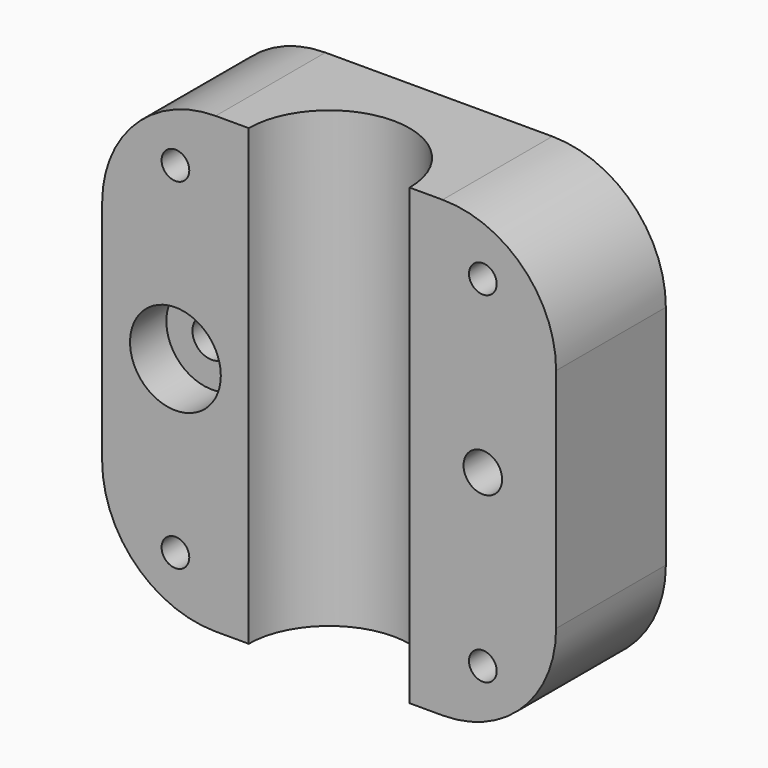
from build123d import *

# Parameters (mm, degrees)
F0_W      = 50.8
F0_H      = 50.8
F1_DEPTH  = 50.8
F2_R      = 9
F3_DEPTH  = 407.416
F4_W      = 60.1204171121
F4_H      = 25.4
F5_DEPTH  = 338.582
F6_R      = 5.08
F7_DEPTH  = 5.08
F8_R      = 2.159
F9_DEPTH  = 25.4
F10_R     = 1.5494
F11_DEPTH = 25.4
F12_R     = 1.5494
F12_R_2   = 2.159
F13_DEPTH = 25.4
F18_DEPTH = 72.39
F21_R     = 12.7


with BuildPart() as f1:
    # F0 (on Top) → F1 (new body)
    with BuildSketch(Plane.XY):
        Rectangle(F0_W, F0_H)
    extrude(amount=F1_DEPTH)

    # F2 (on face) → F3 (cut)
    with BuildSketch(Plane(origin=(0, 0, 0), x_dir=(1, 0, 0), z_dir=(0, 0, -1))):
        Circle(F2_R)
    extrude(amount=-F3_DEPTH, mode=Mode.SUBTRACT)

    # F4 (on face) → F5 (cut)
    with BuildSketch(Plane(origin=(0, 0, 0), x_dir=(1, 0, 0), z_dir=(0, 0, -1))):
        with Locations((4.6602085561, 12.7)):
            Rectangle(F4_W, F4_H)
    extrude(amount=-F5_DEPTH, mode=Mode.SUBTRACT)

    # F6 (on face) → F7 (cut)
    with BuildSketch(Plane.XZ):
        with Locations((-17.2, 25.4)):
            Circle(F6_R)
    extrude(amount=-F7_DEPTH, mode=Mode.SUBTRACT)

    # F8 (on face) → F9 (cut)
    with BuildSketch(Plane.XZ.offset(-5.08)):
        with Locations((-17.2, 25.4)):
            Circle(F8_R)
    extrude(amount=-F9_DEPTH, mode=Mode.SUBTRACT)

    # F10 (on face) → F11 (cut)
    with BuildSketch(Plane.XZ):
        with Locations((-17.2, 44.4713309407)):
            Circle(F10_R)
    extrude(amount=-F11_DEPTH, mode=Mode.SUBTRACT)

    # F12 (on face) → F13 (cut)
    with BuildSketch(Plane.XZ):
        with Locations((17.2, 44.4713309407)):
            Circle(F12_R)
        with Locations((17.2, 25.4)):
            Circle(F12_R_2)
    extrude(amount=-F13_DEPTH, mode=Mode.SUBTRACT)

    # F16: F1 across plane


with BuildPart() as f1_1:
    add(f1.part)
    add(f1.part.mirror(Plane(origin=(0, 13.6714489466, 25.4), x_dir=(1, 0, 0), z_dir=(0, 0, 1))), mode=Mode.INTERSECT)

    # F17 (on face) → F18 (cut)
    with BuildSketch(Plane(origin=(0, 0, 0), x_dir=(1, 0, 0), z_dir=(0, 0, -1))):
        Polygon((37.3146161437, -15.35), (0, -15.35), (-44.7141490877, -15.35), (-42.6479764283, -31.9298505783), (43.3826521039, -33.9571945369), align=None)
    extrude(amount=-F18_DEPTH, mode=Mode.SUBTRACT)

    # F21
    f21_edges = [f1_1.edges().sort_by_distance(p)[0] for p in [
        (25.4, 7.675, 50.8),
        (25.4, 7.675, 0),
        (-25.4, 7.675, 50.8),
        (-25.4, 7.675, 0),
    ]]
    fillet(f21_edges, radius=F21_R)


solid = f1_1.part
